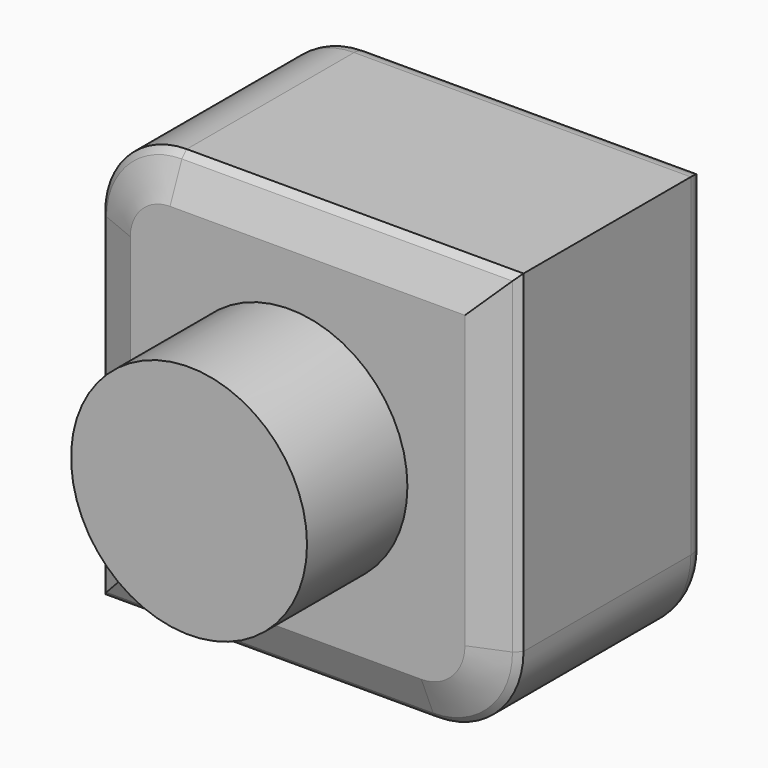
from build123d import *

# Parameters (mm, degrees)
F1_DEPTH = 60
F2_R     = 5
F3_SIZE  = 5
F4_SIZE  = 5
F5_R     = 28.204224
F6_DEPTH = 30


with BuildPart() as f1:
    # F0 (on Front) → F1 (new body)
    with BuildSketch(Plane.XZ):
        with BuildLine():
            Line((31.411576, 50.537112), (-28.546256, 50.537112))
            ThreePointArc((-28.546256, 50.537112), (-42.32879, 44.828199), (-48.037703, 31.045665))
            Line((-48.037703, 31.045665), (-48.037703, -49.462888))
            Line((-48.037703, -49.462888), (31.524516, -49.462888))
            ThreePointArc((31.524516, -49.462888), (45.97621, -43.476801), (51.962297, -29.025107))
            Line((51.962297, -29.025107), (51.962297, 29.986391))
            Line((51.962297, 29.986391), (51.962297, 50.537112))
            Line((51.962297, 50.537112), (31.411576, 50.537112))
        make_face()
    extrude(amount=F1_DEPTH)

    # F2
    f2_edges = [f1.edges().sort_by_distance(p)[0] for p in [
        (-42.32879, 0, 44.828199),
        (-48.037703, 0, -9.208612),
        (-8.256593, 0, -49.462888),
        (45.97621, 0, -43.476801),
        (51.962297, 0, 10.756002),
        (11.708021, 0, 50.537112),
    ]]
    fillet(f2_edges, radius=F2_R)

    # F3
    f3_edges = [f1.edges().sort_by_distance(p)[0] for p in [
        (11.708021, -60, 50.537112),
        (-42.32879, -60, 44.828199),
        (-48.037703, -60, -9.208612),
        (-8.256593, -60, -49.462888),
        (45.97621, -60, -43.476801),
        (51.962297, -60, 10.756002),
    ]]
    chamfer(f3_edges, length=F3_SIZE)

    # F4
    f4_edges = [f1.edges().sort_by_distance(p)[0] for p in [
        (-43.037703, -60, -6.708612),
        (-5.756593, -60, -44.462888),
        (-38.793256, -60, 41.292665),
        (42.440676, -60, -39.941267),
        (9.208021, -60, 45.537112),
        (46.962297, -60, 8.256002),
    ]]
    chamfer(f4_edges, length=F4_SIZE)

    # F5 (on face) → F6 (join)
    with BuildSketch(Plane.XZ.offset(60)):
        Circle(F5_R)
    extrude(amount=F6_DEPTH)


solid = f1.part
